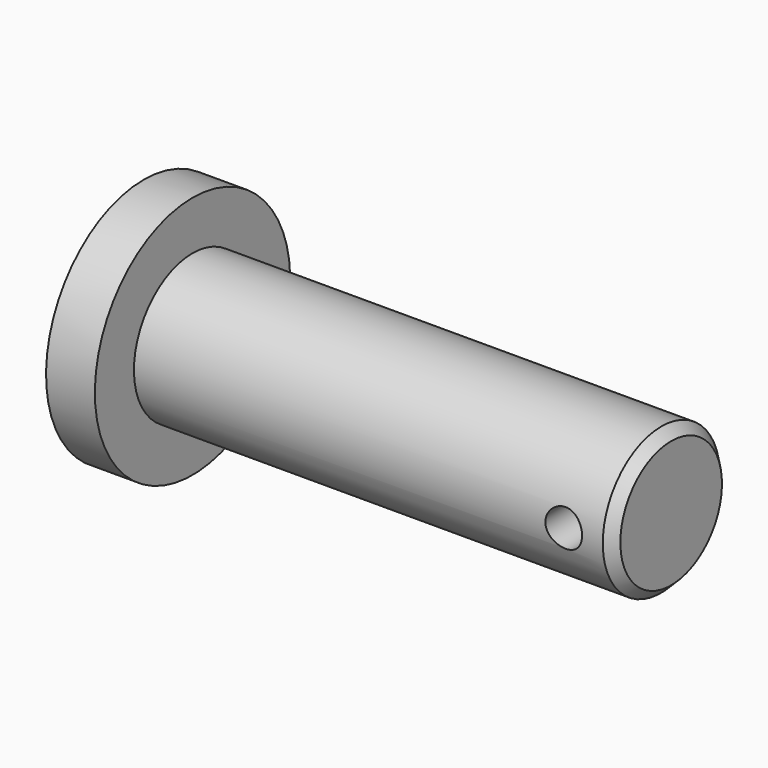
from build123d import *

# Parameters (mm, degrees)
F0_W     = 62.23
F0_H     = 9.525
F2_SIZE  = 1.27
F3_R     = 2.3876
F4_DEPTH = 24.384


with BuildPart() as f1:
    # F0 (on Front) → F1 (revolve)
    with BuildSketch(Plane.XZ):
        Polygon((0, 15.875), (0, 0), (6.35, 0), (6.35, 9.525), (6.35, 15.875), align=None)
        with Locations((37.465, 4.7625)):
            Rectangle(F0_W, F0_H)
    revolve(axis=Axis((37.465, 0, 0), (1, 0, 0)))

    # F2
    f2_edges = [f1.edges().sort_by_distance(p)[0] for p in [
        (68.58, 0, -9.525),
    ]]
    chamfer(f2_edges, length=F2_SIZE)

    # F3 (on Front) → F4 (cut, symmetric)
    with BuildSketch(Plane.XZ):
        with Locations((62.23, 0)):
            Circle(F3_R)
    extrude(amount=F4_DEPTH, both=True, mode=Mode.SUBTRACT)


solid = f1.part
